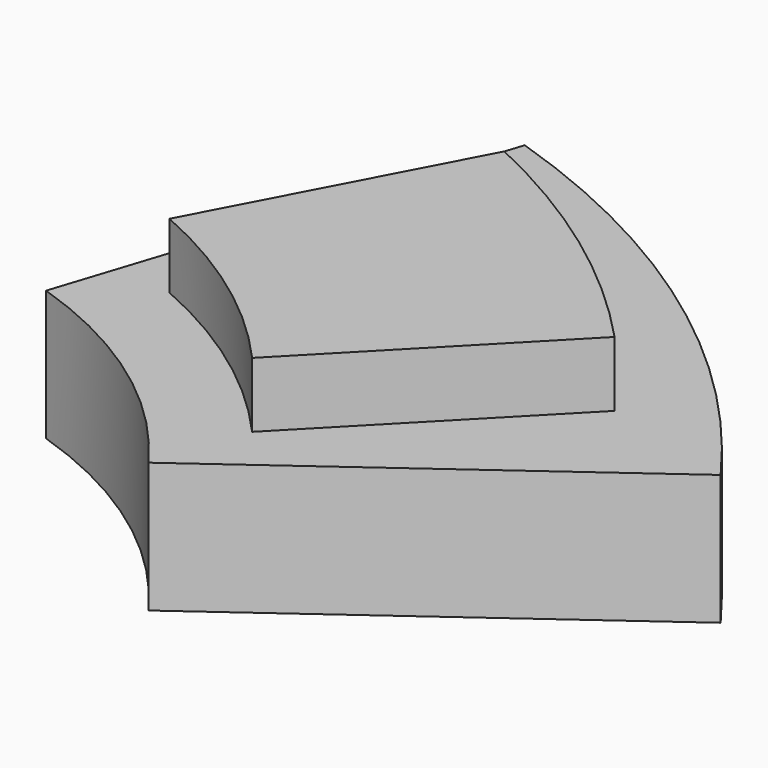
from build123d import *

# Parameters (mm, degrees)
F1_DEPTH = 0.8
F2_DEPTH = 1.6


with BuildPart() as f1:
    # F0 (on Top) → F1 (new body)
    with BuildSketch(Plane.XY):
        with BuildLine():
            Line((4.440718, 9.514727), (2.805396, 6.413248))
            ThreePointArc((2.805396, 6.413248), (4.114497, 5.663119), (5.232447, 4.649893))
            Line((5.232447, 4.649893), (7.676786, 7.163586))
            ThreePointArc((7.676786, 7.163586), (6.171745, 8.494678), (4.440718, 9.514727))
        make_face()
    extrude(amount=F1_DEPTH)

    # F0 (on Top) → F2 (join)
    with BuildSketch(Plane.XY):
        with BuildLine():
            Line((3.553719, 10.937142), (1.854114, 5.706335))
            ThreePointArc((1.854114, 5.706335), (3.526701, 4.85411), (4.854079, 3.526743))
            Line((4.854079, 3.526743), (9.303651, 6.759591))
            ThreePointArc((9.303651, 6.759591), (6.75951, 9.30371), (3.553719, 10.937142))
        make_face()
        with BuildLine():
            ThreePointArc((5.232447, 4.649893), (4.114497, 5.663119), (2.805396, 6.413248))
            Line((2.805396, 6.413248), (4.440718, 9.514727))
            ThreePointArc((4.440718, 9.514727), (6.171745, 8.494678), (7.676786, 7.163586))
            Line((7.676786, 7.163586), (5.232447, 4.649893))
        make_face(mode=Mode.SUBTRACT)
        with BuildLine():
            Line((4.440718, 9.514727), (2.805396, 6.413248))
            ThreePointArc((2.805396, 6.413248), (4.114497, 5.663119), (5.232447, 4.649893))
            Line((5.232447, 4.649893), (7.676786, 7.163586))
            ThreePointArc((7.676786, 7.163586), (6.171745, 8.494678), (4.440718, 9.514727))
        make_face()
    extrude(amount=-F2_DEPTH)


solid = f1.part
